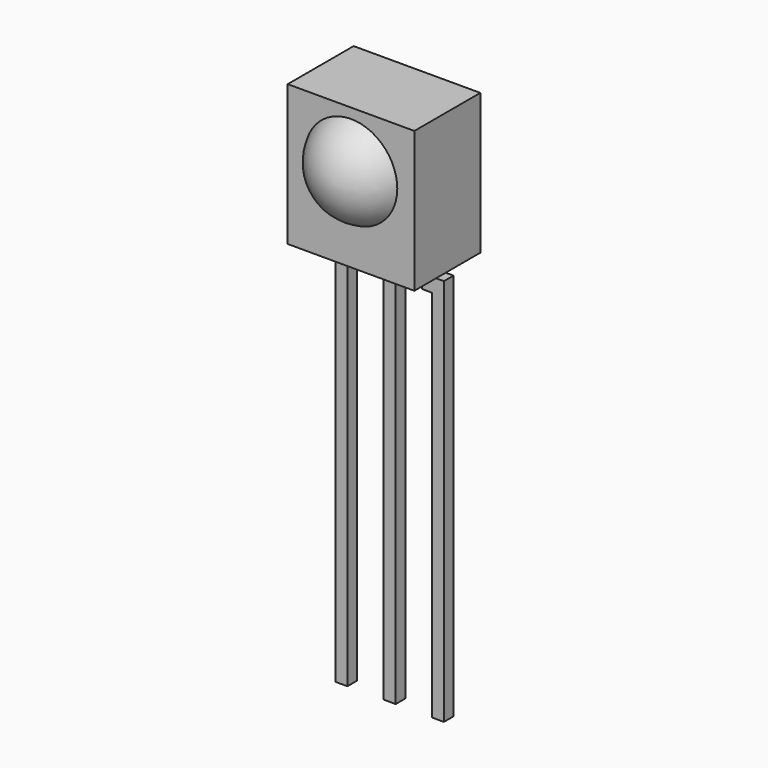
from build123d import *

# Parameters (mm, degrees)
F1_DEPTH      = 2.7
F1_DEPTH_BACK = 1.4
F0_W          = 0.6
F0_H          = 20
F2_DEPTH      = 0.3


with BuildPart() as f1:
    # F0 (on Front) → F1 (new body, two sides)
    with BuildSketch(Plane.XZ) as f1_sk:
        Polygon((3.15, 2.8), (-3.15, 2.8), (-3.15, -4.2), (-2.2, -4.2), (-1.6, -4.2), (-0.3, -4.2), (0.3, -4.2), (1.6, -4.2), (2.2, -4.2), (3.15, -4.2), align=None)
    extrude(amount=F1_DEPTH)
    extrude(f1_sk.sketch, amount=-F1_DEPTH_BACK)

    # F0 (on Front) → F2 (join, symmetric)
    with BuildSketch(Plane.XZ):
        Polygon((-1.6, -4.2), (-2.2, -4.2), (-2.2, -4.9), (-2.7, -4.9), (-2.7, -24.2), (-2.1, -24.2), (-2.1, -5.6), (-1.6, -5.6), align=None)
        with Locations((0, -14.2)):
            Rectangle(F0_W, F0_H)
        Polygon((2.2, -4.9), (2.2, -4.2), (1.6, -4.2), (1.6, -5.6), (2.1, -5.6), (2.1, -24.2), (2.7, -24.2), (2.7, -4.9), align=None)
    extrude(amount=F2_DEPTH, both=True)

    # F3 (on Top) → F4 (revolve)
    with BuildSketch(Plane.XY):
        with BuildLine():
            ThreePointArc((0, -4.2), (1.3729530218, -3.7918613001), (2.3, -2.7))
            Line((2.3, -2.7), (0, -2.7))
            Line((0, -2.7), (0, -4.2))
        make_face()
    revolve(axis=Axis((0, -4.0003820322, 0), (0, -1, 0)))


solid = f1.part
